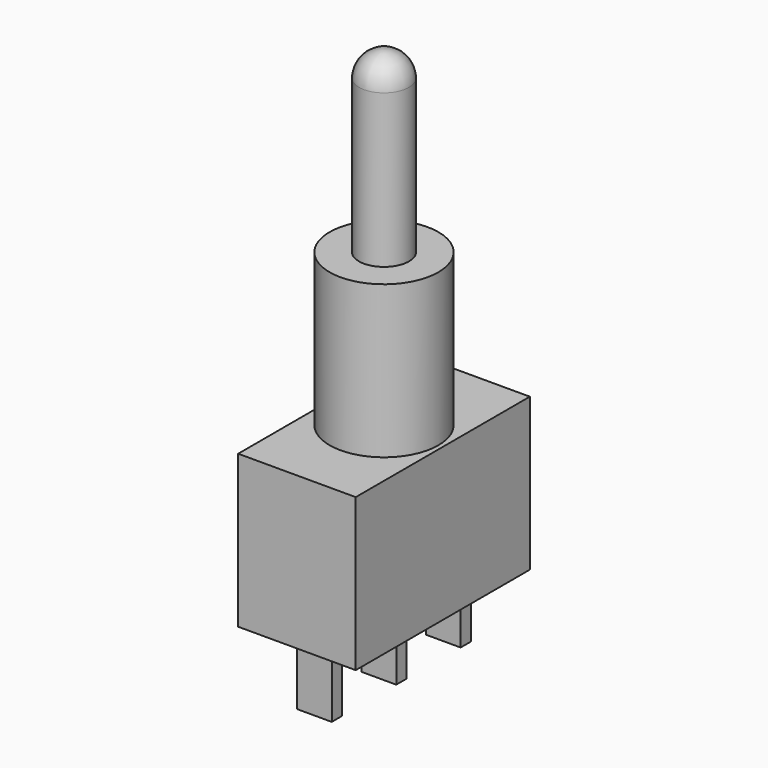
from build123d import *

# Parameters (mm, degrees)
F0_W     = 6.86
F0_H     = 12.7
F1_DEPTH = 4.445
F2_R     = 3.175
F3_DEPTH = 8.89
F4_W     = 2.03
F4_H     = 0.75
F4_H_2   = 0.76
F5_DEPTH = 3.96


with BuildPart() as f1:
    # F0 (on Top) → F1 (new body, symmetric)
    with BuildSketch(Plane.XY):
        Rectangle(F0_W, F0_H)
    extrude(amount=F1_DEPTH, both=True)

    # F2 (on face) → F3 (join)
    with BuildSketch(Plane.XY.offset(4.445)):
        Circle(F2_R)
    extrude(amount=F3_DEPTH)

    # F4 (on face) → F5 (join)
    with BuildSketch(Plane(origin=(0, 0, -4.445), x_dir=(1, 0, 0), z_dir=(0, 0, -1))):
        Rectangle(F4_W, F4_H)
        with Locations((0, -4.7)):
            Rectangle(F4_W, F4_H_2)
        with Locations((0, 4.7)):
            Rectangle(F4_W, F4_H_2)
    extrude(amount=F5_DEPTH)

    # F6 (on Right) → F7 (revolve)
    with BuildSketch(Plane.YZ):
        with BuildLine():
            Line((-1.46, 22.275), (-1.46, 13.335))
            Line((-1.46, 13.335), (0, 13.335))
            Line((0, 13.335), (0, 23.735))
            ThreePointArc((0, 23.735), (-1.032376, 23.307376), (-1.46, 22.275))
        make_face()
    revolve(axis=Axis((0, 0, 18.535), (0, 0, -1)))


solid = f1.part
